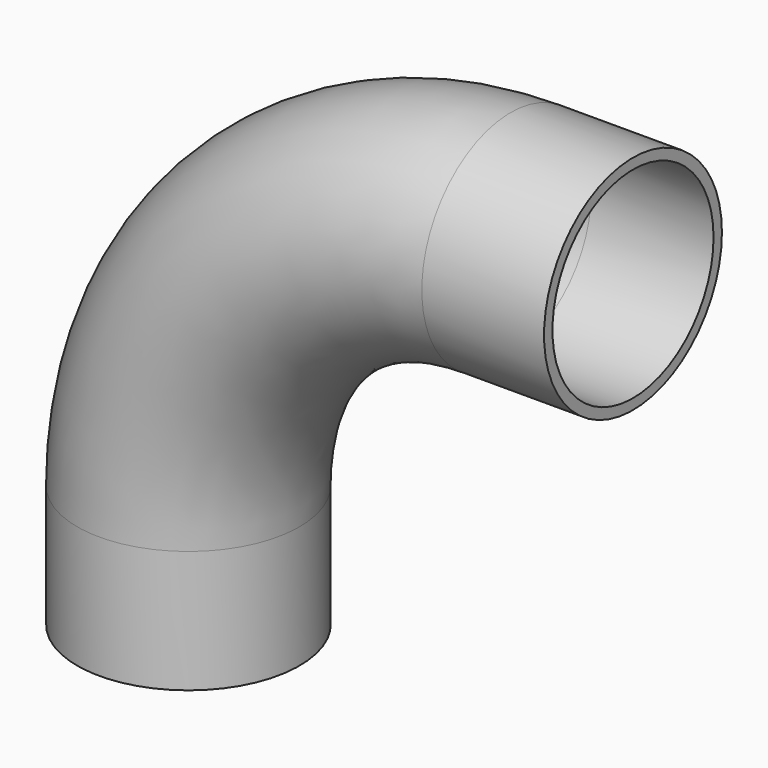
from build123d import *

# Parameters (mm, degrees)
F1_R   = 84.1375
F1_R_2 = 76.2


with BuildPart() as f2:
    # F2: sweep along a path in F0
    with BuildLine(Plane.XZ) as f2_path:
        Line((0, 168.275), (-92.539645279, 168.275))
        ThreePointArc((-92.539645279, 168.275), (-265.081021782, 96.806021782), (-336.55, -75.735354721))
        Line((-336.55, -75.735354721), (-336.55, -168.275))
    # F1 (on Right) → F2 (sweep)
    with BuildSketch(Plane.YZ):
        with Locations((0, 168.275)):
            Circle(F1_R)
        with Locations((0, 168.275)):
            Circle(F1_R_2, mode=Mode.SUBTRACT)
    sweep(path=f2_path.line)


solid = f2.part
